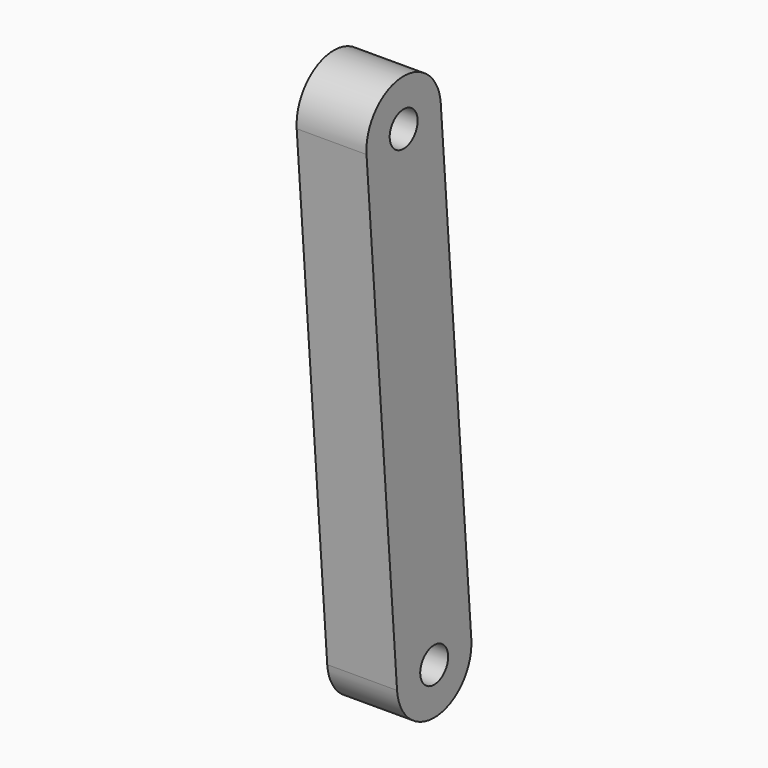
from build123d import *

# Parameters (mm, degrees)
F2_R     = 4.7625
F3_DEPTH = 19.05


with BuildPart() as f3:
    # F2 (on Right) → F3 (new body)
    with BuildSketch(Plane.YZ):
        with BuildLine():
            ThreePointArc((-747.498817, 389.755495), (-761.151829, 401.42491), (-772.821244, 387.771898))
            Line((-772.821244, 387.771898), (-762.407361, 254.829153))
            ThreePointArc((-762.407361, 254.829153), (-748.754349, 243.159737), (-737.084934, 256.81275))
            Line((-737.084934, 256.81275), (-747.498817, 389.755495))
        make_face()
        with Locations((-749.746147, 255.820951)):
            Circle(F2_R, mode=Mode.SUBTRACT)
        with Locations((-760.160031, 388.763697)):
            Circle(F2_R, mode=Mode.SUBTRACT)
    extrude(amount=F3_DEPTH)


solid = f3.part
